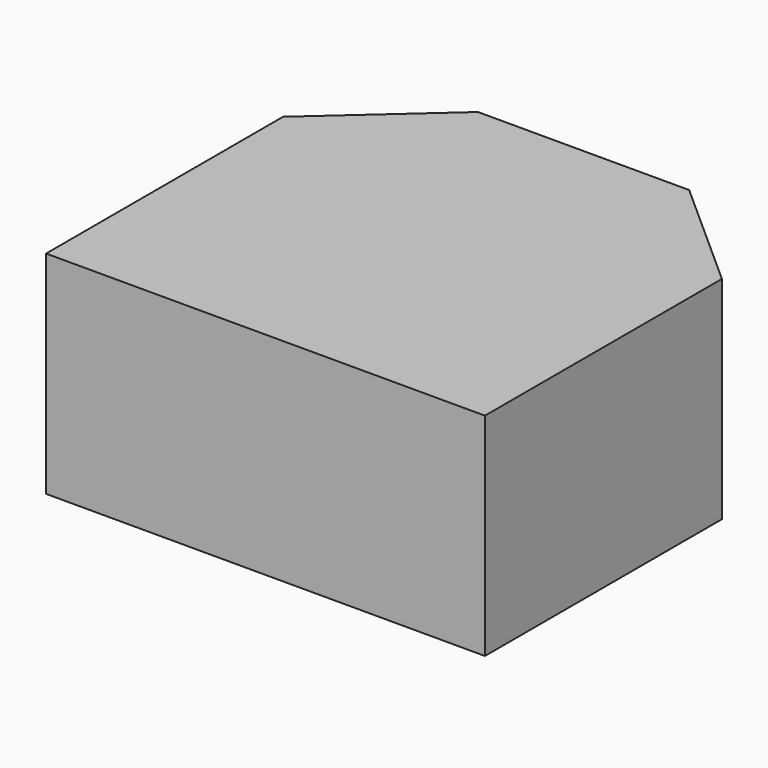
from build123d import *

# Parameters (mm, degrees)
F1_DEPTH = 25.4


with BuildPart() as f1:
    # F0 (on Top) → F1 (new body)
    with BuildSketch(Plane.XY):
        Polygon((-12.679948, 27.465422), (-26.342474, 15.300158), (-26.342474, -20.259844), (-12.679948, -20.259844), align=None)
        Polygon((0, 27.465422), (-12.679948, 27.465422), (-12.679948, -20.259844), (0, -20.259844), (12.679948, -20.259844), (12.679948, 27.465422), align=None)
        Polygon((26.342474, 15.300158), (12.679948, 27.465422), (12.679948, -20.259844), (26.342474, -20.259844), align=None)
    extrude(amount=F1_DEPTH)


solid = f1.part
